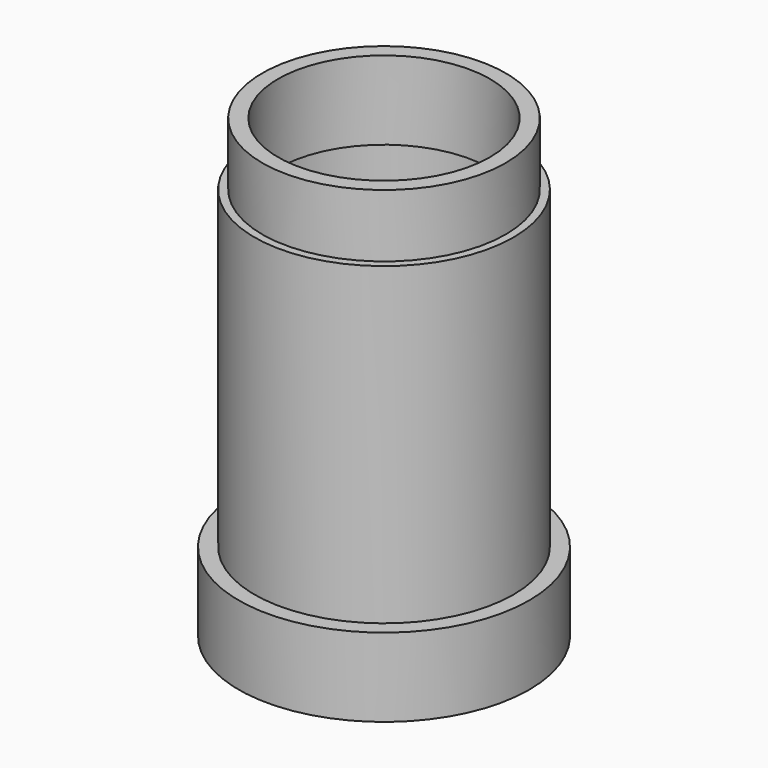
from build123d import *

# Parameters (mm, degrees)
F0_R     = 23.1
F1_DEPTH = 12.5
F2_R     = 20.6
F3_DEPTH = 50
F4_R     = 19.35
F5_DEPTH = 10
F6_T     = -2.5


with BuildPart() as f1:
    # F0 (on Top) → F1 (new body)
    with BuildSketch(Plane.XY):
        Circle(F0_R)
    extrude(amount=F1_DEPTH)

    # F2 (on face) → F3 (join)
    with BuildSketch(Plane.XY.offset(12.5)):
        Circle(F2_R)
    extrude(amount=F3_DEPTH)

    # F4 (on face) → F5 (join)
    with BuildSketch(Plane.XY.offset(62.5)):
        Circle(F4_R)
    extrude(amount=F5_DEPTH)

    # F6
    f6_openings = [f1.faces().sort_by_distance(p)[0] for p in [
        (0, 0, 72.5),
        (0, 0, 0),
    ]]
    offset(amount=F6_T, openings=f6_openings, kind=Kind.INTERSECTION)


solid = f1.part
